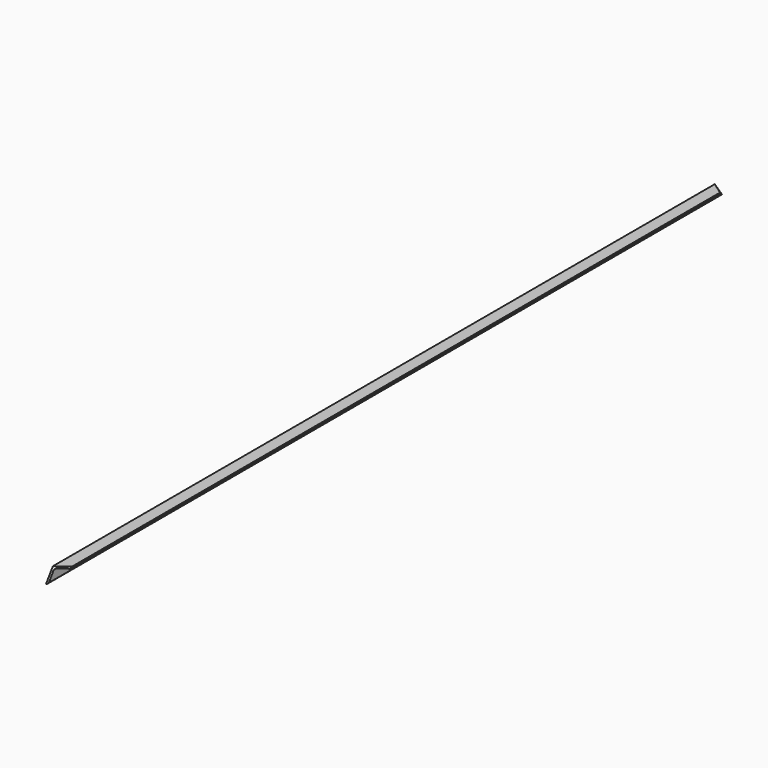
from build123d import *

# Parameters (mm, degrees)
F1_DEPTH  = 3500
F7_DEPTH  = 45
F9_DEPTH  = 45
F11_DEPTH = 3500.001
F13_W     = 3511.1849075183
F13_H     = 7.3810932226
F14_DEPTH = 0.5


with BuildPart() as f1:
    # F0 (on Front) → F1 (new body)
    with BuildSketch(Plane.XZ):
        with BuildLine():
            Line((0, 50), (0, 0))
            Line((0, 0), (2.5, 0))
            ThreePointArc((2.5, 0), (4.9748737342, 1.0251262658), (6, 3.5))
            Line((6, 3.5), (6, 37))
            ThreePointArc((6, 37), (8.0502525317, 41.9497474683), (13, 44))
            Line((13, 44), (46.5, 44))
            ThreePointArc((46.5, 44), (48.9748737342, 45.0251262658), (50, 47.5))
            Line((50, 47.5), (50, 50))
            Line((50, 50), (0, 50))
        make_face()
    extrude(amount=F1_DEPTH)

    # F6 (on 3pt) → F7 (cut)
    with BuildSketch(Plane(origin=(1.9748737342, 0, -1.9748737342), x_dir=(0, -1, 0), z_dir=(-0.7071067812, 0, 0.7071067812))):
        Polygon((3429.2893218813, 70.7106781187), (3500, 0), (3500, 70.7106781187), align=None)
    extrude(amount=F7_DEPTH, mode=Mode.SUBTRACT)

    # F8 (on 3pt) → F9 (cut)
    with BuildSketch(Plane(origin=(1.9748737342, 0, -1.9748737342), x_dir=(0, -1, 0), z_dir=(-0.7071067812, 0, 0.7071067812))):
        Polygon((0, 70.7106781187), (0, 0), (70.7106781187, 70.7106781187), align=None)
    extrude(amount=F9_DEPTH, mode=Mode.SUBTRACT)

    # F10 (on Front) → F11 (cut, through all)
    with BuildSketch(Plane.XZ):
        Polygon((1.6213203436, -1.6213203436), (1.9748737342, -1.9748737342), (51.9748737342, 48.0251262658), (51.6213203436, 48.3786796564), align=None)
    extrude(amount=F11_DEPTH, mode=Mode.SUBTRACT)

    # F13 (on face) → F14 (cut)
    with BuildSketch(Plane(origin=(0, 0, 0), x_dir=(0.7071067812, 0, -0.7071067812), z_dir=(-0.7071067812, 0, -0.7071067812))):
        with Locations((1746.5947982855, -1.3125382829)):
            Rectangle(F13_W, F13_H)
    extrude(amount=-F14_DEPTH, mode=Mode.SUBTRACT)


solid = f1.part
